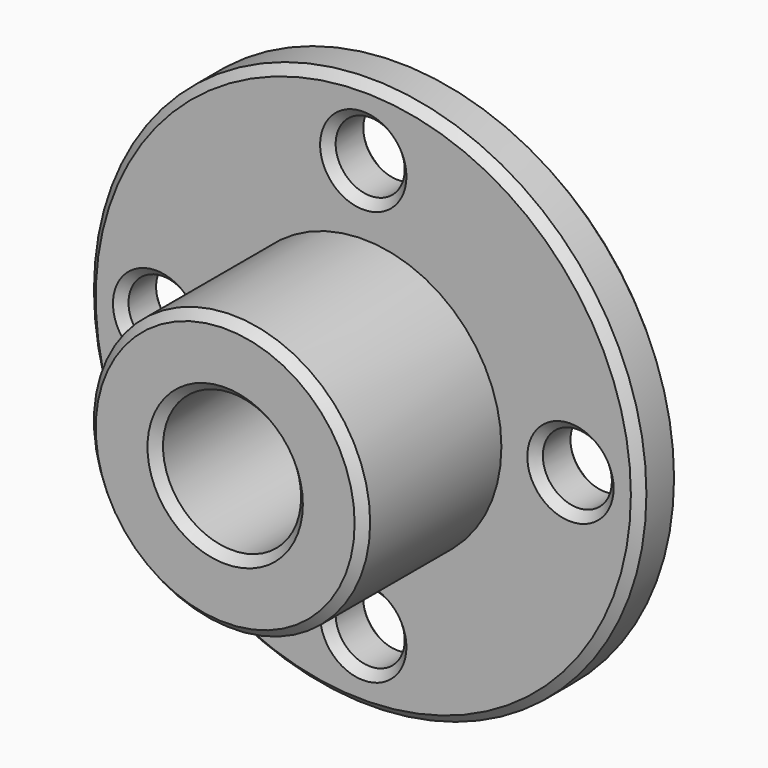
from build123d import *

# Parameters (mm, degrees)
F0_R     = 16
F1_DEPTH = 3
F2_R     = 8
F3_DEPTH = 10
F4_R     = 4
F5_DEPTH = 13.001
F6_R     = 2
F7_DEPTH = 3.001
F8_SIZE  = 0.5


with BuildPart() as f1:
    # F0 (on Front) → F1 (new body)
    with BuildSketch(Plane.XZ):
        Circle(F0_R)
    extrude(amount=F1_DEPTH)

    # F2 (on face) → F3 (join)
    with BuildSketch(Plane.XZ.offset(3)):
        Circle(F2_R)
    extrude(amount=F3_DEPTH)

    # F4 (on face) → F5 (cut, through all)
    with BuildSketch(Plane.XZ.offset(13)):
        Circle(F4_R)
    extrude(amount=-F5_DEPTH, mode=Mode.SUBTRACT)

    # F6 (on face) → F7 (cut, through all)
    with BuildSketch(Plane.XZ.offset(3)):
        with Locations((0, 12)):
            Circle(F6_R)
        with Locations((-12, 0)):
            Circle(F6_R)
        with Locations((0, -12)):
            Circle(F6_R)
        with Locations((12, 0)):
            Circle(F6_R)
    extrude(amount=-F7_DEPTH, mode=Mode.SUBTRACT)

    # F8
    f8_edges = [f1.edges().sort_by_distance(p)[0] for p in [
        (-8, -13, 0),
        (-4, -13, 0),
        (-16, 0, 0),
        (-2, 0, -12),
        (-14, 0, 0),
        (-4, 0, 0),
        (10, 0, 0),
        (-2, 0, 12),
        (-16, -3, 0),
        (-2, -3, 12),
        (-14, -3, 0),
        (10, -3, 0),
        (-2, -3, -12),
    ]]
    chamfer(f8_edges, length=F8_SIZE)


solid = f1.part
